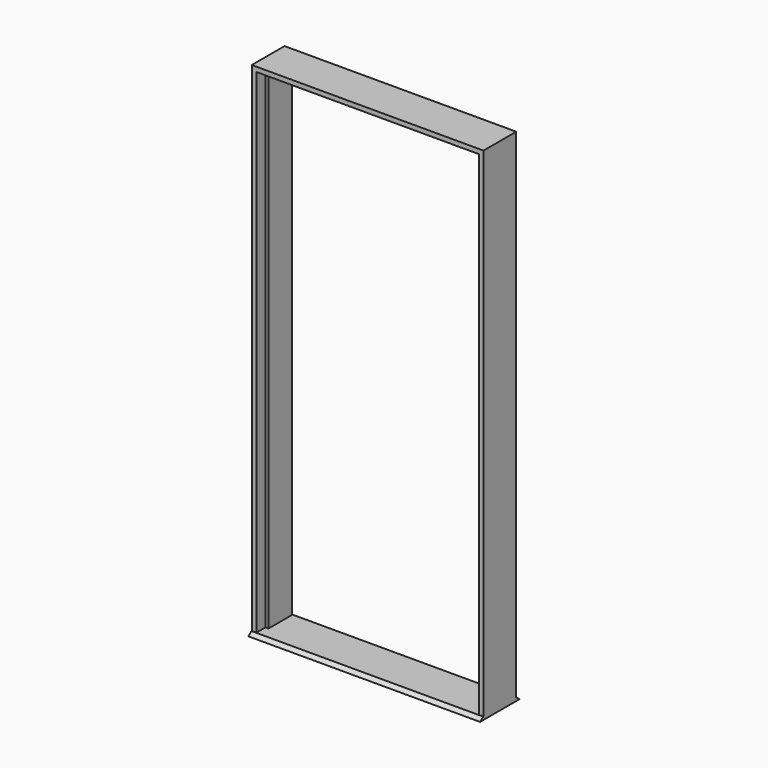
from build123d import *

# Parameters (mm, degrees)
F1_DEPTH = 2047.875
F3_DEPTH = 168.276
F5_DEPTH = 952.5
F7_DEPTH = 952.5


with BuildPart() as f1:
    # F0 (on Top) → F1 (new body)
    with BuildSketch(Plane.XY):
        Polygon((-19.05, 0), (0, 0), (0, 168.275), (-31.75, 168.275), (-31.75, 46.0375), (-19.05, 46.0375), align=None)
        Polygon((-933.45, 0), (-933.45, 46.0375), (-920.75, 46.0375), (-920.75, 168.275), (-952.5, 168.275), (-952.5, 0), align=None)
    extrude(amount=F1_DEPTH)

    # F2 (on Front) → F3 (cut, through all)
    with BuildSketch(Plane.XZ):
        Polygon((0, 2047.875), (-952.5, 2047.875), (-476.25, 1571.625), align=None)
    extrude(amount=-F3_DEPTH, mode=Mode.SUBTRACT)

    # F4 (on Right) → F5 (join, through all)
    with BuildSketch(Plane.YZ):
        Polygon((46.0375, 2016.125), (168.275, 2016.125), (168.275, 2047.875), (0, 2047.875), (0, 2028.825), (46.0375, 2028.825), align=None)
    extrude(amount=-F5_DEPTH)

    # F6 (on Right) → F7 (join, through all)
    with BuildSketch(Plane.YZ):
        Polygon((-17.4625, -12.7), (84.1375, -12.7), (185.7375, -12.7), (169.8625, 0), (84.1375, 0), (-1.5875, 0), align=None)
    extrude(amount=-F7_DEPTH)


solid = f1.part
